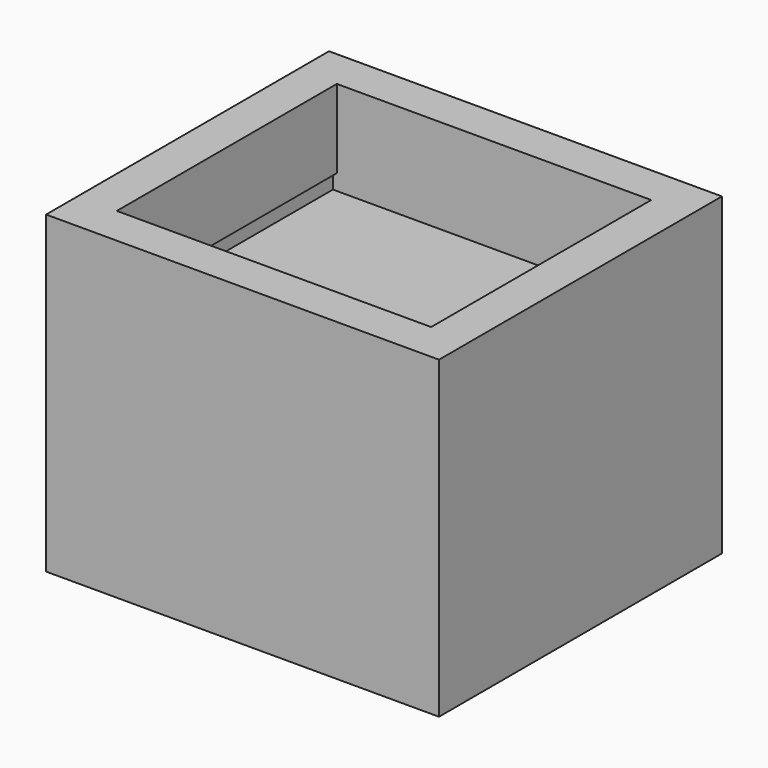
from build123d import *

# Parameters (mm, degrees)
F1_DEPTH = 7
F3_DEPTH = 1
F5_DEPTH = 1


with BuildPart() as f1:
    # F0 (on Front) → F1 (new body)
    with BuildSketch(Plane.XZ):
        Polygon((0, 8), (0, 0), (10, 0), (10, 8), (9, 8), (9, 6), (9.1, 6), (9.1, 5.6), (0.9, 5.6), (0.9, 6), (1, 6), (1, 8), align=None)
    extrude(amount=F1_DEPTH)

    # F2 (on face) → F3 (join)
    with BuildSketch(Plane.XZ.offset(7)):
        Polygon((1, 8), (0, 8), (0, 0), (10, 0), (10, 8), (9, 8), (9, 6), (9.1, 6), (9.1, 5.6), (0.9, 5.6), (0.9, 6), (1, 6), align=None)
        Polygon((9, 8), (1, 8), (1, 6), (0.9, 6), (0.9, 5.6), (9.1, 5.6), (9.1, 6), (9, 6), align=None)
    extrude(amount=F3_DEPTH)

    # F4 (on face) → F5 (join)
    with BuildSketch(Plane(origin=(0, 0, 0), x_dir=(-1, 0, 0), z_dir=(0, 1, 0))):
        Polygon((-9, 8), (-10, 8), (-10, 0), (0, 0), (0, 8), (-1, 8), (-1, 6), (-0.9, 6), (-0.9, 5.6), (-9.1, 5.6), (-9.1, 6), (-9, 6), align=None)
        Polygon((-1, 8), (-9, 8), (-9, 6), (-9.1, 6), (-9.1, 5.6), (-0.9, 5.6), (-0.9, 6), (-1, 6), align=None)
    extrude(amount=F5_DEPTH)


solid = f1.part
